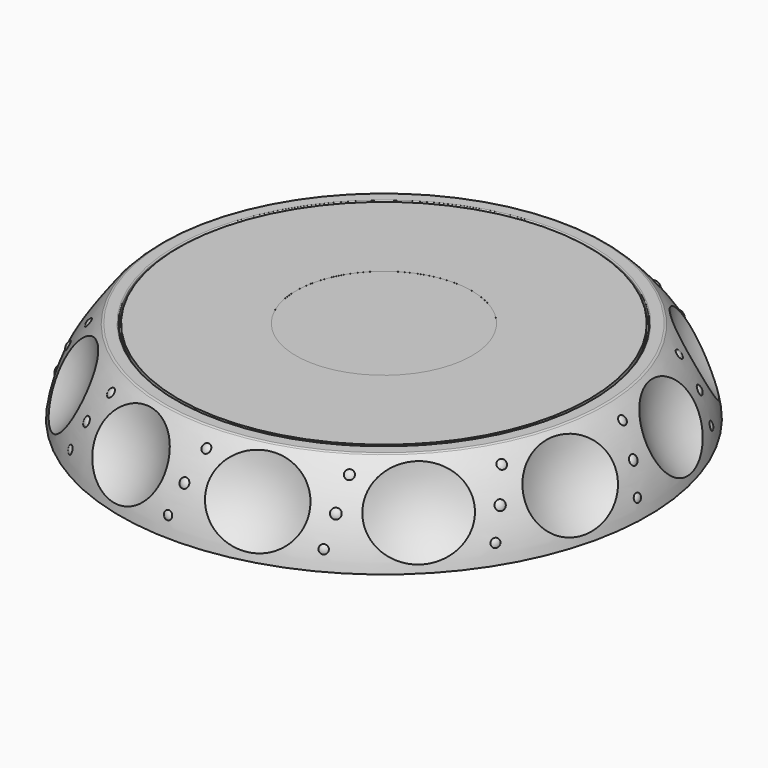
from build123d import *

# Parameters (mm, degrees)
CYLINDER002_R         = 11.6
CYLINDER002_DEPTH     = 0.1
CYLINDER001_R         = 14
CYLINDER001_DEPTH     = 0.1
CYLINDER003_R         = 21
CYLINDER003_DEPTH     = 1
CYLINDER_R            = 49
CYLINDER_DEPTH        = 1
CYLINDER004_R         = 35
CYLINDER004_DEPTH     = 2
ARRAY003_COUNT        = 12
SPHERE002_ANGLE       = 180
ARRAY002_COUNT        = 12
ARRAY001_COUNT        = 12
ARRAY_COUNT           = 12
ARRAY_PLACEMENT_ANGLE = 15.000002
CYLINDER005_R         = 21
CYLINDER005_DEPTH     = 0.96


with BuildPart() as cylinder002:
    # Cylinder002 → Cylinder002 (new body)
    with BuildSketch(Plane.XY.offset(25)):
        Circle(CYLINDER002_R)
    extrude(amount=CYLINDER002_DEPTH)


with BuildPart() as cut001:
    # Cylinder001 → Cylinder001 (new body)
    with BuildSketch(Plane.XY.offset(25)):
        Circle(CYLINDER001_R)
    extrude(amount=CYLINDER001_DEPTH)

    # Cut001: cut Cylinder002
    add(cylinder002.part, mode=Mode.SUBTRACT)


with BuildPart() as cut001_1:
    # Cut001 placement: moved
    add(cut001.part.moved(Location((0, 0, -7.1))))


with BuildPart() as cylinder003:
    # Cylinder003 → Cylinder003 (new body)
    with BuildSketch(Plane.XY.offset(19)):
        Circle(CYLINDER003_R)
    extrude(amount=CYLINDER003_DEPTH)


with BuildPart() as cut002:
    # Cylinder → Cylinder (new body)
    with BuildSketch(Plane.XY.offset(19)):
        Circle(CYLINDER_R)
    extrude(amount=CYLINDER_DEPTH)

    # Cut002: cut Cylinder003
    add(cylinder003.part, mode=Mode.SUBTRACT)


with BuildPart() as lcd:
    # Cylinder004 → Cylinder004 (new body)
    with BuildSketch(Plane.XY.offset(15.9)):
        Circle(CYLINDER004_R)
    extrude(amount=CYLINDER004_DEPTH)


with BuildPart() as array003:
    # Sphere003 → Sphere003 (revolve)
    with BuildSketch(Plane(origin=(54.36, 1.9, 16), x_dir=(0, -1, 0), z_dir=(-1, 0, 0))):
        with BuildLine():
            ThreePointArc((0, -1.7), (1.7, 0), (0, 1.7))
            Line((0, 1.7), (0, -1.7))
        make_face()
    revolve(axis=Axis((54.36, 1.9, 16), (0, 0, 1)))

    # Array003: Array003 ×12 about axis
    array003_axis = Axis((0, 0, 16), (0, 0, 1))


with BuildPart() as array003_1:
    add(array003.part)
    for i in range(1, ARRAY003_COUNT):
        add(array003.part.rotate(array003_axis, i * 360 / ARRAY003_COUNT))


with BuildPart() as array002:
    # Sphere002 → Sphere002 (revolve)
    with BuildSketch(Plane(origin=(60.69, -1.87, 3.9), x_dir=(0, -1, 0), z_dir=(-1, 0, 0))):
        with BuildLine():
            ThreePointArc((0, -1.7), (1.7, 0), (0, 1.7))
            Line((0, 1.7), (0, -1.7))
        make_face()
    revolve(axis=Axis((60.69, -1.87, 3.9), (0, 0, 1)), revolution_arc=SPHERE002_ANGLE)

    # Array002: Array002 ×12 about axis
    array002_axis = Axis((0, 0, 3.9), (0, 0, 1))


with BuildPart() as array002_1:
    add(array002.part)
    for i in range(1, ARRAY002_COUNT):
        add(array002.part.rotate(array002_axis, i * 360 / ARRAY002_COUNT))


with BuildPart() as array001:
    # Sphere001 → Sphere001 (revolve)
    with BuildSketch(Plane(origin=(58.38, 0, 10.05), x_dir=(0, -1, 0), z_dir=(-1, 0, 0))):
        with BuildLine():
            ThreePointArc((0, -1.7), (1.7, 0), (0, 1.7))
            Line((0, 1.7), (0, -1.7))
        make_face()
    revolve(axis=Axis((58.38, 0, 10.05), (0, 0, 1)))

    # Array001: Array001 ×12 about axis
    array001_axis = Axis((0, 0, 10.05), (0, 0, 1))


with BuildPart() as array001_1:
    add(array001.part)
    for i in range(1, ARRAY001_COUNT):
        add(array001.part.rotate(array001_axis, i * 360 / ARRAY001_COUNT))


with BuildPart() as array:
    # Sphere → Sphere (revolve)
    with BuildSketch(Plane(origin=(74, 0, 18.6), x_dir=(1, 0, 0), z_dir=(0, -1, 0))):
        with BuildLine():
            ThreePointArc((0, -20.3), (20.3, 0), (0, 20.3))
            Line((0, 20.3), (0, -20.3))
        make_face()
    revolve(axis=Axis((74, 0, 18.6), (0, 0, 1)))

    # Array: Array ×12 about axis
    array_axis = Axis((0, 0, 18.6), (0, 0, 1))


with BuildPart() as array_1:
    add(array.part)
    for i in range(1, ARRAY_COUNT):
        add(array.part.rotate(array_axis, i * 360 / ARRAY_COUNT))


with BuildPart() as array_2:
    # Array placement: moved
    add(array_1.part.rotate(Axis((0, 0, 0), (0, 0, 1)), ARRAY_PLACEMENT_ANGLE))


with BuildPart() as fusion002:
    # Sketch → Revolve (revolve)
    with BuildSketch(Plane.XZ):
        with BuildLine():
            ThreePointArc((-52.703561, 19.805777), (-59.477464, 10.748033), (-63, 0))
            Line((-63, 0), (-61, 0))
            Line((-61, 0), (-60.5, 3))
            Line((-60.5, 3), (-53.168215, 5.932714))
            ThreePointArc((-53.168215, 5.932714), (-53.046009, 6.03115), (-53, 6.181173))
            Line((-53, 6.181173), (-53, 7.274248))
            ThreePointArc((-53, 7.274248), (-53.061238, 7.452187), (-53.219012, 7.554753))
            Line((-53.219012, 7.554753), (-54.28579, 7.821447))
            ThreePointArc((-54.634747, 8.639193), (-54.663476, 8.143605), (-54.28579, 7.821447))
            Line((-54.634747, 8.639193), (-53, 11.5))
            Line((-50.75, 14.25), (-53, 11.5))
            Line((-48.5, 15.5), (-50.75, 14.25))
            Line((-45.746598, 15.9589), (-48.5, 15.5))
            ThreePointArc((-45.746598, 15.9589), (-45.569936, 16.059245), (-45.5, 16.25))
            Line((-45.5, 18), (-45.5, 16.25))
            Line((-49.5, 18), (-45.5, 18))
            Line((-49.5, 19.75), (-49.5, 18))
            ThreePointArc((-49.5, 19.75), (-49.573223, 19.926777), (-49.75, 20))
            Line((-52.221463, 20), (-49.75, 20))
            ThreePointArc((-52.221463, 20), (-52.481339, 19.949619), (-52.703561, 19.805777))
        make_face()
    revolve(axis=Axis((0, 0, 0), (0, 0, 1)))

    # Cut: cut Array
    add(array_2.part, mode=Mode.SUBTRACT)

    # Fusion: union Array001
    add(array001_1.part)

    # Fusion001: union Array002
    add(array002_1.part)

    # Fusion002: union Array003
    add(array003_1.part)


with BuildPart() as glass:
    # Cylinder005 → Cylinder005 (new body)
    with BuildSketch(Plane.XY.offset(19.03)):
        Circle(CYLINDER005_R)
    extrude(amount=CYLINDER005_DEPTH)


solid = Compound([cut001_1.part, cut002.part, lcd.part, fusion002.part, glass.part])
